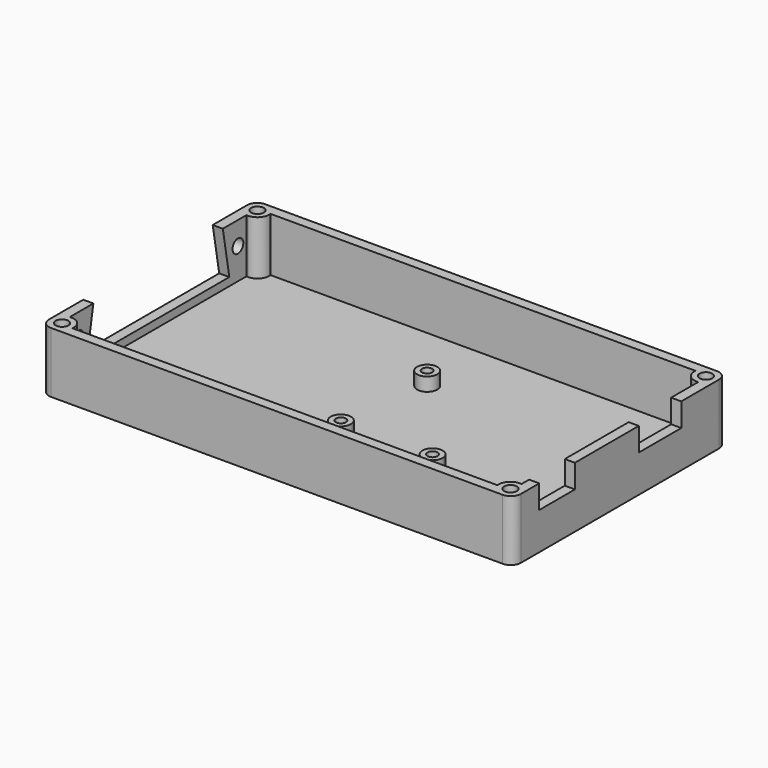
from build123d import *

# Parameters (mm, degrees)
F1_W      = 111.125
F1_H      = 63.0682
F2_DEPTH  = 1.5875
F3_W      = 111.125
F3_H      = 63.0682
F3_R      = 1.5
F4_DEPTH  = 12.7
F5_R      = 2.38125
F6_W      = 10.5
F6_H      = 5.5245
F6_W_2    = 12.5
F7_DEPTH  = 2.38125
F9_R      = 1.5875
F10_DEPTH = 2.38125
F11_R     = 2.38125
F12_DEPTH = 3.175
F13_R     = 1.190625
F14_DEPTH = 4.7635
F15_R     = 1.5
F16_DEPTH = 14.2885


with BuildPart() as f2:
    # F1 (on Top) → F2 (new body)
    with BuildSketch(Plane.XY):
        Rectangle(F1_W, F1_H)
    extrude(amount=F2_DEPTH)

    # F3 (on face) → F4 (join)
    with BuildSketch(Plane.XY.offset(1.5875)):
        Rectangle(F3_W, F3_H)
        with Locations((-52.784375, -28.755975)):
            Circle(F3_R, mode=Mode.SUBTRACT)
        with Locations((52.784375, -28.755975)):
            Circle(F3_R, mode=Mode.SUBTRACT)
        with BuildLine():
            Line((52.784375, 25.97785), (53.18125, 25.97785))
            Line((53.18125, 25.97785), (53.18125, -25.97785))
            Line((53.18125, -25.97785), (52.784375, -25.97785))
            ThreePointArc((52.784375, -25.97785), (50.819944, -26.791544), (50.00625, -28.755975))
            Line((50.00625, -28.755975), (50.00625, -29.15285))
            Line((50.00625, -29.15285), (-50.00625, -29.15285))
            Line((-50.00625, -29.15285), (-50.00625, -28.755975))
            ThreePointArc((-50.00625, -28.755975), (-50.819944, -26.791544), (-52.784375, -25.97785))
            Line((-52.784375, -25.97785), (-53.18125, -25.97785))
            Line((-53.18125, -25.97785), (-53.18125, 25.97785))
            Line((-53.18125, 25.97785), (-52.784375, 25.97785))
            ThreePointArc((-52.784375, 25.97785), (-50.819944, 26.791544), (-50.00625, 28.755975))
            Line((-50.00625, 28.755975), (-50.00625, 29.15285))
            Line((-50.00625, 29.15285), (50.00625, 29.15285))
            Line((50.00625, 29.15285), (50.00625, 28.755975))
            ThreePointArc((50.00625, 28.755975), (50.819944, 26.791544), (52.784375, 25.97785))
        make_face(mode=Mode.SUBTRACT)
        with Locations((-52.784375, 28.755975)):
            Circle(F3_R, mode=Mode.SUBTRACT)
        with Locations((52.784375, 28.755975)):
            Circle(F3_R, mode=Mode.SUBTRACT)
    extrude(amount=F4_DEPTH)

    # F5
    f5_edges = [f2.edges().sort_by_distance(p)[0] for p in [
        (55.5625, -31.5341, 7.14375),
        (55.5625, 31.5341, 7.14375),
        (-55.5625, -31.5341, 7.14375),
        (-55.5625, 31.5341, 7.14375),
    ]]
    fillet(f5_edges, radius=F5_R)

    # F6 (on face) → F7 (cut, through all)
    with BuildSketch(Plane.YZ.offset(55.5625)):
        with Locations((-18.5216, 11.52525)):
            Rectangle(F6_W, F6_H)
        with Locations((11.7716, 11.52525)):
            Rectangle(F6_W_2, F6_H)
    extrude(amount=-F7_DEPTH, mode=Mode.SUBTRACT)

    # F9 (on face) → F10 (cut, through all)
    with BuildSketch(Plane(origin=(-55.5625, 0, 0), x_dir=(0, -1, 0), z_dir=(-1, 0, 0))):
        Polygon((19.05, 14.2875), (-19.05, 14.2875), (-20.955, 3.4925), (20.955, 3.4925), align=None)
        with Locations((-23.495, 8.89)):
            Circle(F9_R)
        with Locations((23.495, 8.89)):
            Circle(F9_R)
    extrude(amount=-F10_DEPTH, mode=Mode.SUBTRACT)

    # F11 (on face) → F12 (join)
    with BuildSketch(Plane.XY.offset(1.5875)):
        with Locations((0, 12.7)):
            Circle(F11_R)
        with Locations((0, -12.7)):
            Circle(F11_R)
        with Locations((21.59, -12.7)):
            Circle(F11_R)
    extrude(amount=F12_DEPTH)

    # F13 (on face) → F14 (cut, through all)
    with BuildSketch(Plane.XY.offset(4.7625)):
        with Locations((0, 12.7)):
            Circle(F13_R)
        with Locations((0, -12.7)):
            Circle(F13_R)
        with Locations((21.59, -12.7)):
            Circle(F13_R)
    extrude(amount=-F14_DEPTH, mode=Mode.SUBTRACT)

    # F15 (on face) → F16 (cut, through all)
    with BuildSketch(Plane.XY.offset(14.2875)):
        with Locations((52.784375, 28.755975)):
            Circle(F15_R)
        with Locations((52.784375, -28.755975)):
            Circle(F15_R)
        with Locations((-52.784375, -28.755975)):
            Circle(F15_R)
        with Locations((-52.784375, 28.755975)):
            Circle(F15_R)
    extrude(amount=-F16_DEPTH, mode=Mode.SUBTRACT)


solid = f2.part
